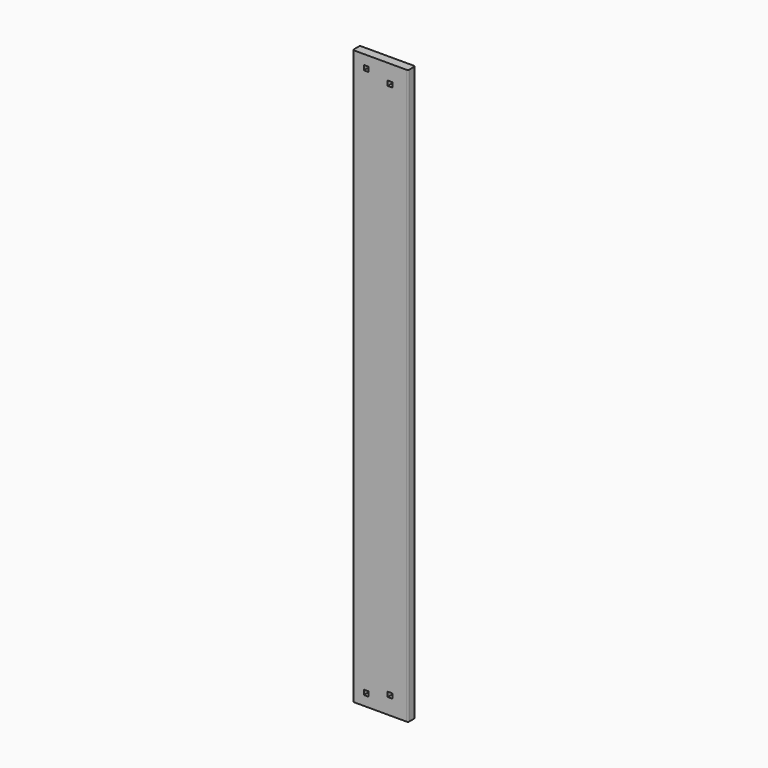
from build123d import *

# Parameters (mm, degrees)
F0_W     = 234.95
F0_H     = 38.1
F1_DEPTH = 2438.4
F2_W     = 20.32
F2_H     = 20.32
F3_DEPTH = 50.8
F4_R     = 5.08


with BuildPart() as f1:
    # F0 (on Top) → F1 (new body)
    with BuildSketch(Plane.XY):
        with Locations((117.475, 19.05)):
            Rectangle(F0_W, F0_H)
    extrude(amount=F1_DEPTH)

    # F2 (on face) → F3 (cut)
    with BuildSketch(Plane.XZ):
        with Locations((57.15, 2387.6)):
            Rectangle(F2_W, F2_H)
        with Locations((158.75, 2362.2)):
            Rectangle(F2_W, F2_H)
        with Locations((158.75, 76.2)):
            Rectangle(F2_W, F2_H)
        with Locations((57.15, 50.8)):
            Rectangle(F2_W, F2_H)
    extrude(amount=-F3_DEPTH, mode=Mode.SUBTRACT)

    # F4
    f4_edges = [f1.edges().sort_by_distance(p)[0] for p in [
        (0, 0, 1219.2),
        (234.95, 0, 1219.2),
        (0, 38.1, 1219.2),
        (234.95, 38.1, 1219.2),
    ]]
    fillet(f4_edges, radius=F4_R)


solid = f1.part
